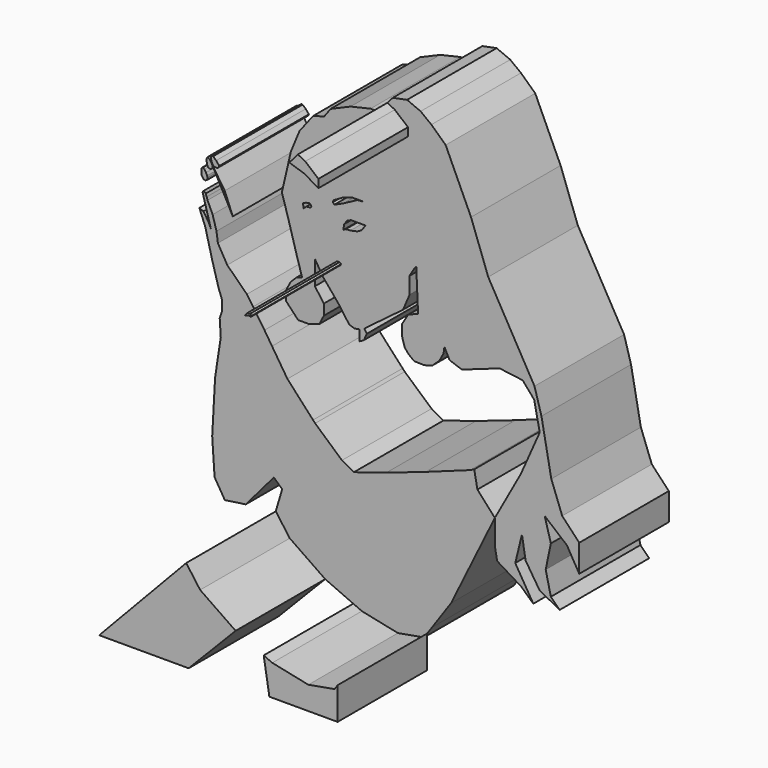
from build123d import *

# Parameters (mm, degrees)
F1_DEPTH = 25.4
F3_DEPTH = 25.4


with BuildPart() as f1:
    # F0 (on Front) → F1 (new body)
    with BuildSketch(Plane.XZ):
        Polygon((-36.4137738943, 26.8094744533), (-36.2115055323, 27.1864272654), (-36.9286350906, 28.0322711915), (-37.627376616, 28.6482684314), (-37.9399731755, 28.6666546017), (-38.0227193236, 28.5839103162), (-38.1238535047, 28.0782412738), (-37.9399731755, 27.3978877813), (-37.627376616, 26.8922206014), (-37.259619683, 26.6439821571), (-36.7355644703, 26.588819921), align=None)
    extrude(amount=F1_DEPTH)


with BuildPart() as f1b:
    # F0 (on Front) → F1, piece 2 (new body)
    with BuildSketch(Plane.XZ):
        Polygon((-34.9805951118, 22.6368289441), (-37.7690456808, 26.8195047975), (-35.9764695168, 23.4335288405), (-33.1481844187, 18.0956367403), align=None)
    extrude(amount=F1_DEPTH)


with BuildPart() as f1c:
    # F0 (on Front) → F1, piece 3 (new body)
    with BuildSketch(Plane.XZ):
        Polygon((-39.0340536833, 26.7726983875), (-38.8047546148, 26.1024739593), (-38.4824164212, 25.9544365108), (-38.1054654717, 25.9544365108), (-37.9031971097, 26.092344895), (-37.7468988299, 26.3957455754), (-37.7690456808, 26.8195047975), (-38.0594953895, 27.3059476167), (-38.3077301085, 27.6645123959), (-38.6449867233, 27.9745941382), (-38.8685613871, 28.1058233231), (-39.1167998314, 27.6829004288), align=None)
    extrude(amount=F1_DEPTH)


with BuildPart() as f1d:
    # F0 (on Front) → F1, piece 4 (new body)
    with BuildSketch(Plane.XZ):
        Polygon((-40.2661003172, 24.2670979351), (-40.1842544444, 23.9129536382), (-39.786759764, 23.381812498), (-39.3878258765, 23.2416465878), (-38.9565452933, 23.4896335751), (-38.924202323, 23.9316932857), (-38.9673300087, 24.3629720062), (-39.2368771136, 24.8589422554), (-39.5926833153, 25.4411678761), (-39.9053581059, 25.6891530007), (-40.1514060795, 25.5717542022), (-40.309112519, 25.2850167453), align=None)
    extrude(amount=F1_DEPTH)


with BuildPart() as f1e:
    # F0 (on Front) → F1, piece 5 (new body)
    with BuildSketch(Plane.XZ):
        Polygon((16.385262832, -43.0068261921), (26.3005420566, -22.7795988321), (22.3448295146, -18.4030681849), (21.6235705655, -14.6027562376), (20.7336787134, -15.0422090665), (10.639347136, -18.6808630824), (1.6920552589, -21.7536371201), (-5.6774076074, -24.052368477), (-8.3817979321, -22.5649531931), (-14.466676861, -17.1561725438), (-14.9413708275, -16.6406447127), (-14.5301120356, -22.3167836666), (-14.6064776927, -23.4622713178), (-15.4829826206, -27.2041913122), (-15.4829826206, -30.9967771173), (-6.5646301955, -34.2073850334), (3.3050128259, -37.7747267485), align=None)
        Polygon((12.0340356411, -49.2893820156), (16.385262832, -43.0068261921), (3.3050128259, -37.7747267485), (-6.5646301955, -34.2073850334), (-15.4829826206, -30.9967771173), (-16.0574279726, -33.0079905689), (-17.2029156238, -36.0626205802), (-19.9520811439, -39.0408858657), (-19.6466185153, -38.0481295288), (-21.9506062567, -32.7442251146), (-23.4019514173, -37.6260206103), (-20.2353801578, -41.9800579548), (-12.1870143339, -47.5215539336), (-5.821229988, -50.3507928472), (-3.8747689687, -51.2158870697), (4.305539187, -52.931111306), (10.2428589016, -51.8755875528), align=None)
        Polygon((-16.0574279726, -33.0079905689), (-15.4829826206, -30.9967771173), (-15.4829826206, -27.2041913122), (-14.6064776927, -23.4622713178), (-14.5301120356, -22.3167836666), (-14.9413708275, -16.6406447127), (-20.7543838769, -10.3275878355), (-23.067394448, -6.7529352382), (-24.3812948465, -11.7783099413), (-26.137707755, -16.589352861), (-26.6722682863, -23.0040755123), (-25.4504159093, -27.9678497463), (-23.832526058, -30.9903696179), (-21.9506062567, -32.7442251146), (-19.6466185153, -38.0481295288), (-19.9520811439, -39.0408858657), (-17.2029156238, -36.0626205802), align=None)
        Polygon((-30.2070435137, -38.4532175958), (-23.832526058, -30.9903696179), (-25.4504159093, -27.9678497463), (-26.6722682863, -23.0040755123), (-26.137707755, -16.589352861), (-24.3812948465, -11.7783099413), (-23.067394448, -6.7529352382), (-24.2495833139, -4.9259161347), (-26.1818487197, -10.7996314764), (-28.5538616312, -15.6563706696), (-28.5538616312, -14.1184031963), (-28.5538616312, -3.5145224538), (-28.5538616312, 1.5423267344), (-29.9493093044, 3.6000213586), (-34.4085693359, 7.9727834091), (-36.5355610847, 11.6541171446), (-36.8528403342, 13.9527963474), (-37.7292111516, 16.9802568853), (-38.8844236732, 19.4500274956), (-39.0746280556, 20.0749840262), (-39.282117039, 20.6818450242), (-39.5056828856, 20.8734758198), (-39.8570038378, 20.9852587432), (-40.0007255375, 20.7297522575), (-39.7634729743, 19.8160242289), (-38.1073372419, 13.9642265225), (-38.6245846748, 15.12240991), (-39.7979877889, 16.9515386224), (-40.7388173044, 17.343332991), (-39.4018813968, 14.0009913594), (-37.814270705, 7.8176595271), (-36.393776536, 2.8041487094), (-35.5999693274, 0.6734064082), (-35.5999693274, -1.6811850946), (-36.1188426614, -3.2053363975), (-35.8817502856, -6.9649098441), (-37.1688120067, -15.3646767139), (-37.8253683448, -27.3366831243), (-37.281204015, -35.3436991572), (-34.9490642548, -39.1528606415), align=None)
        Polygon((-26.1818487197, -10.7996314764), (-24.2495833139, -4.9259161347), (-25.960335508, -2.2820264567), (-28.5538616312, 1.5423267344), (-28.5538616312, -3.5145224538), (-28.5538616312, -14.1184031963), (-28.5538616312, -15.6563706696), align=None)
    extrude(amount=F1_DEPTH)

    # F2 (on face) → F3, piece 2 (join)
    with BuildSketch(Plane.XZ.offset(25.4)):
        Polygon((-3.8747689687, -51.2158870697), (-5.8192126895, -50.3516894247), (-4.5333621092, -58.195669204), (10.9496591613, -58.195669204), (10.9496591613, -50.8550680781), (10.2428589016, -51.8755875528), (4.305539187, -52.931111306), align=None)
        Polygon((-20.2353801578, -41.9800579548), (-23.4019514173, -37.6260206103), (-43.1443148609, -58.4713056126), (-22.8437203914, -58.4713056126), (-12.1870143339, -47.5215539336), align=None)
    extrude(amount=F3_DEPTH)


with BuildPart() as f1f:
    # F0 (on Front) → F1, piece 6 (new body)
    with BuildSketch(Plane.XZ):
        Polygon((-21.1252346635, 5.1773334412), (-18.3212358912, 2.2231210023), (-15.876268968, 2.2231210023), (-13.4901106358, 3.0047933105), (-12.5027345493, 4.9795447849), (-12.5027345493, 7.4068433605), (-14.5186269656, 10.209438391), (-16.3447970427, 10.9551508744), (-15.2361141518, 3.7568642292), (-17.4157468623, 10.9840654676), (-18.6864606305, 10.6008342272), (-20.0288370252, 9.28311795), (-20.9258887917, 7.5886873528), (-21.1252346635, 5.8942567557), align=None)
        Polygon((-16.3447970427, 10.9551508744), (-14.5186269656, 10.209438391), (-14.5576382056, 15.7261751592), (-15.4490178993, 18.5838338121), (-15.4490178993, 20.8510961384), (-16.9236194342, 23.9735245705), (-17.081907019, 24.939538911), (-17.2401946038, 25.9055532515), (-17.2401946038, 20.1829969883), (-16.7366098613, 13.4990531951), align=None)
        Polygon((-18.7660362571, 15.4613396153), (-17.4157468623, 10.9840654676), (-15.2361141518, 3.7568642292), (-16.3447970427, 10.9551508744), (-16.7366098613, 13.4990531951), (-17.2401946038, 20.1829969883), (-17.2401946038, 25.9055532515), (-16.5597703308, 26.2378994375), (-15.7171413302, 26.4374688268), (-15.3401754797, 25.9274560958), (-15.428872779, 25.6170146167), (-16.4710730314, 25.4839677364), (-17.081907019, 24.939538911), (-16.9236194342, 23.9735245705), (-15.4490178993, 20.8510961384), (-15.4490178993, 18.5838338121), (-14.5576382056, 15.7261751592), (-14.1227799586, 15.0188060755), (-12.650931254, 12.6245999709), (-10.6171108782, 10.209438391), (-8.8883638382, 8.1247724593), (-7.4138436466, 6.0146837495), (-6.6765840165, 5.0740418956), (-5.5071371607, 4.6927006915), (-4.3957391754, 4.8987488262), (-3.3337215427, 5.3998632357), (5.4652988911, 12.0200784877), (4.5064534061, 17.9646648467), (5.1120193675, 23.1456179172), (5.4484447464, 26.8126558512), (8.0631040037, 25.8932337165), (11.8143809959, 25.8932337165), (11.8143809959, 28.4710302949), (13.334620744, 31.3793122768), (13.334620744, 36.8653945625), (11.0068107024, 42.323641479), (6.0596093535, 46.7842295766), (2.1667294204, 49.7849918902), (0, 49.7849918902), (-1.8883530283, 49.7849918902), (-6.4300461672, 48.7306714058), (-10.9717389569, 46.7842295766), (-12.4028879218, 44.8154229671), (-14.9574363604, 44.0722815692), (-18.0228948593, 40.0778949261), (-19.9736412615, 35.340372473), (-22.0172815025, 26.5155676752), (-20.6238888204, 21.963827312), align=None)
        Polygon((-7.5107659213, 23.8983482122), (-8.0895191059, 23.5289316624), (-7.8678689897, 24.7849486768), (-7.2275465354, 25.6592351943), (-6.3532600179, 26.0779075325), (-6.0084708966, 26.0779075325), (-4.112131428, 26.0779075325), (-3.0285089742, 26.0779075325), (-3.9274231531, 24.8342044652), (-4.8509649932, 24.3047066033), (-6.4763990231, 23.9476040006), align=None, mode=Mode.SUBTRACT)
        Polygon((-8.0552846193, 28.8618430495), (-10.0950431079, 27.9400292784), (-10.4480776936, 28.3322893083), (-10.3107867762, 28.7637766451), (-8.2121891901, 29.9797877669), (-6.1135911383, 30.6858569384), (-3.3873755019, 30.6858569384), (-4.8975814134, 30.5485650897), align=None, mode=Mode.SUBTRACT)
        Polygon((-3.3337215427, 5.3998632357), (-4.3957391754, 4.8987488262), (-4.3832096271, 2.4908063933), (-3.4316477831, 3.0345560517), (-2.7137116117, 4.5757993881), align=None)
        Polygon((4.5064534061, 17.9646648467), (5.4652988911, 12.0200784877), (6.9737029262, 15.5396871269), (6.8899025209, 19.2268956453), (8.0631040037, 21.1542993784), (8.4661217406, 21.6291192919), (8.981667459, 21.9083726406), (9.2394398525, 21.5861573815), (9.2242109798, 21.1898775071), (9.5715085045, 20.9029000252), (9.8862489685, 21.2837960571), (10.8392313123, 23.6662533134), (11.8143809959, 25.8932337165), (8.0631040037, 25.8932337165), (5.4484447464, 26.8126558512), (5.1120193675, 23.1456179172), align=None)
        Polygon((1.0780027608, 51.1834816327), (0, 49.7849918902), (2.1667294204, 49.7849918902), (6.0596093535, 46.7842295766), (5.9785074554, 47.1897386014), (6.5462198108, 48.5684685409), (6.140710786, 49.7038885951), (3.4643567633, 51.4070242643), align=None)
        Polygon((3.1399494037, 53.5967685282), (1.0780027608, 51.1834816327), (3.4643567633, 51.4070242643), (6.140710786, 49.7038885951), (6.5462198108, 48.5684685409), (5.9785074554, 47.1897386014), (6.0596093535, 46.7842295766), (11.0068107024, 42.323641479), (13.334620744, 36.8653945625), (13.334620744, 31.3793122768), (11.8143809959, 28.4710302949), (11.8143809959, 25.8932337165), (10.8392313123, 23.6662533134), (9.8862489685, 21.2837960571), (9.5715085045, 20.9029000252), (12.0017137378, 14.1988834366), (13.0911171436, 10.763076134), (14.5157212391, 8.3328699693), (14.8551184324, 7.6729306216), (16.0241238773, 5.3998632357), (18.8099425286, 4.405381158), (27.3946709931, 7.4352868833), (32.6128415763, 6.7619732581), (35.221926868, 3.7320696283), (36.4843830466, -2.4119049776), (32.1920216084, -12.0907668024), (26.3005420566, -22.7795988321), (26.3005420566, -28.421131894), (26.8308464438, -31.2313809991), (32.217156142, -34.5100089908), (35.0274071097, -37.0860733092), (30.9291277081, -30.2946325392), (32.4513465166, -24.0886602551), (33.2710035145, -29.0066022426), (36.4325344563, -33.9245386422), (40.9991927445, -36.3835096359), (39.0085987747, -34.3929156661), (37.8376580775, -29.3578803539), (39.0085987747, -23.7373802811), (37.6034714282, -18.7023468316), (42.6385067403, -22.9177251458), (45.4487577081, -27.7185700834), (45.4487577081, -21.5125977993), (41.5846630931, -17.414316535), (39.1060970724, -10.8272871003), (36.8766710162, 0.9700836963), (35.297498107, 6.4507503994), (24.800626561, 24.8434990644), (20.8991337568, 35.5261564255), (15.1397883892, 48.0666682124), (11.8989283219, 51.0826185346), (9.4658788294, 52.9479570687), (6.384015549, 54.2455837131), align=None)
        Polygon((8.981667459, 21.9083726406), (8.4661217406, 21.6291192919), (8.8836411014, 12.3276989907), (9.2242109798, 21.1898775071), (9.2394398525, 21.5861573815), align=None)
        Polygon((9.2242109798, 21.1898775071), (8.8836411014, 12.3276989907), (10.9213814139, 12.0220379904), (13.0911171436, 10.763076134), (12.0017137378, 14.1988834366), (9.5715085045, 20.9029000252), align=None)
        Polygon((10.9213814139, 12.0220379904), (8.8836411014, 12.3276989907), (6.6421278752, 11.4107159898), (5.2666529082, 9.1692022979), (5.2157095633, 6.7239142954), (5.8732970691, 4.5757993881), (6.6891475581, 3.5751264077), (7.9852649942, 2.5735814124), (10.3123830631, 2.5146671105), (12.1681867167, 3.0743540265), (13.6999618262, 4.5177568682), (14.6720493212, 6.2851887196), (14.8551184324, 7.6729306216), (14.5157212391, 8.3328699693), (13.0911171436, 10.763076134), align=None)
    extrude(amount=F1_DEPTH)

    # F2 (on face) → F3 (join)
    with BuildSketch(Plane.XZ.offset(25.4)):
        Polygon((1.9221951952, 52.2078871727), (0, 49.9666258693), (3.4163682722, 48.8459989429), (6.5914867446, 46.9782799482), (6.5914867446, 48.8459989429), (3.6031396594, 51.3674132526), align=None)
        Polygon((-9.491071105, 16.8493222445), (-10.0651942194, 16.1795113236), (-9.337970987, 16.390023753), (-8.7255733088, 16.3134746253), (-8.5533363745, 16.5813993663), (-8.9421651657, 16.8313601528), align=None)
    extrude(amount=F3_DEPTH)


solid = Compound([f1.part, f1b.part, f1c.part, f1d.part, f1e.part, f1f.part])
